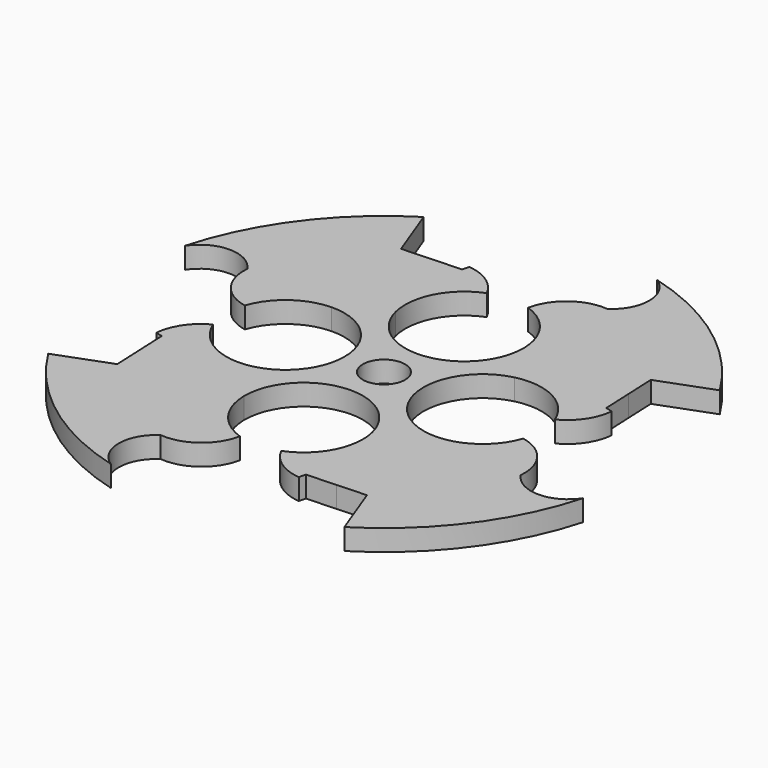
from build123d import *

# Parameters (mm, degrees)
F0_R     = 3
F1_DEPTH = 3


with BuildPart() as f1:
    # F0 (on Top) → F1 (new body)
    with BuildSketch(Plane.XY):
        with BuildLine():
            ThreePointArc((57.3301127781, 5.6720778685), (67.5811295865, 15.1085810454), (73.679486557, 27.6361897588))
            ThreePointArc((73.679486557, 27.6361897588), (69.2456728253, 25.2293463411), (64.8118590936, 27.6361897588))
            ThreePointArc((64.8118590936, 27.6361897588), (63.5273534072, 32.1621670241), (59.5437049903, 34.6651593043))
            ThreePointArc((59.5437049903, 34.6651593043), (56.5473999136, 30.5977037223), (51.7587434047, 28.9881050568))
            ThreePointArc((51.7587434047, 28.9881050568), (43.2853466758, 36.2848022119), (49.588750459, 45.5209996029))
            ThreePointArc((49.588750459, 45.5209996029), (55.4595817481, 44.828212266), (59.4162546646, 40.4360199032))
            ThreePointArc((59.4162546646, 40.4360199032), (61.9654848992, 42.6842952192), (63.1107981169, 45.8845411972))
            Line((63.1107981169, 45.8845411972), (62.1492189347, 46.1509661226))
            Line((62.1492189347, 46.1509661226), (61.9658155367, 50.3289483488))
            Line((61.9658155367, 50.3289483488), (61.7824121386, 54.5069305749))
            Line((61.7824121386, 54.5069305749), (69.3279221315, 57.3301127781))
            ThreePointArc((69.3279221315, 57.3301127781), (59.8914189546, 67.5811295865), (47.3638102412, 73.679486557))
            ThreePointArc((47.3638102412, 73.679486557), (49.7706536589, 69.2456728253), (47.3638102412, 64.8118590936))
            ThreePointArc((47.3638102412, 64.8118590936), (42.8378329759, 63.5273534072), (40.3348406957, 59.5437049903))
            ThreePointArc((40.3348406957, 59.5437049903), (44.4022962777, 56.5473999136), (46.0118949432, 51.7587434047))
            ThreePointArc((46.0118949432, 51.7587434047), (46.012965743, 51.6813590294), (46.0133226864, 51.603968069))
            ThreePointArc((46.0133226864, 51.603968069), (38.6384185061, 43.2756291652), (29.4790003971, 49.588750459))
            ThreePointArc((29.4790003971, 49.588750459), (30.171787734, 55.4595817481), (34.5639800968, 59.4162546646))
            ThreePointArc((34.5639800968, 59.4162546646), (32.3157047808, 61.9654848992), (29.1154588028, 63.1107981169))
            Line((29.1154588028, 63.1107981169), (28.8490338774, 62.1492189347))
            Line((28.8490338774, 62.1492189347), (24.6710516512, 61.9658155367))
            Line((24.6710516512, 61.9658155367), (20.4930694251, 61.7824121386))
            Line((20.4930694251, 61.7824121386), (17.6698872219, 69.3279221315))
            ThreePointArc((17.6698872219, 69.3279221315), (7.4188704135, 59.8914189546), (1.320513443, 47.3638102412))
            ThreePointArc((1.320513443, 47.3638102412), (5.7543271747, 49.7706536589), (10.1881409064, 47.3638102412))
            ThreePointArc((10.1881409064, 47.3638102412), (11.4726465928, 42.8378329759), (15.4562950097, 40.3348406957))
            ThreePointArc((15.4562950097, 40.3348406957), (18.4526000864, 44.4022962777), (23.2412565953, 46.0118949432))
            ThreePointArc((23.2412565953, 46.0118949432), (29.2736601064, 43.6104288236), (31.786001315, 37.6233533025))
            ThreePointArc((31.786001315, 37.6233533025), (30.0028163347, 32.4520878764), (25.411249541, 29.4790003971))
            ThreePointArc((25.411249541, 29.4790003971), (19.5404182519, 30.171787734), (15.5837453354, 34.5639800968))
            ThreePointArc((15.5837453354, 34.5639800968), (13.0345151008, 32.3157047808), (11.8892018831, 29.1154588028))
            Line((11.8892018831, 29.1154588028), (12.8507810653, 28.8490338774))
            Line((12.8507810653, 28.8490338774), (13.0341844633, 24.6710516512))
            Line((13.0341844633, 24.6710516512), (13.2175878614, 20.4930694251))
            Line((13.2175878614, 20.4930694251), (5.6720778685, 17.6698872219))
            ThreePointArc((5.6720778685, 17.6698872219), (15.1085810454, 7.4188704135), (27.6361897588, 1.320513443))
            ThreePointArc((27.6361897588, 1.320513443), (25.2293463411, 5.7543271747), (27.6361897588, 10.1881409064))
            ThreePointArc((27.6361897588, 10.1881409064), (32.1621670241, 11.4726465928), (34.6651593043, 15.4562950097))
            ThreePointArc((34.6651593043, 15.4562950097), (30.5977037223, 18.4526000864), (28.9881050568, 23.2412565953))
            ThreePointArc((28.9881050568, 23.2412565953), (36.2848022119, 31.7146533242), (45.5209996029, 25.411249541))
            ThreePointArc((45.5209996029, 25.411249541), (45.7049856013, 24.4110971346), (45.7666160814, 23.396031931))
            ThreePointArc((45.7666160814, 23.396031931), (44.3070014429, 18.6672086771), (40.4360199032, 15.5837453354))
            ThreePointArc((40.4360199032, 15.5837453354), (42.6842952192, 13.0345151008), (45.8845411972, 11.8892018831))
            Line((45.8845411972, 11.8892018831), (46.1509661226, 12.8507810653))
            Line((46.1509661226, 12.8507810653), (50.3289483488, 13.0341844633))
            Line((50.3289483488, 13.0341844633), (54.5069305749, 13.2175878614))
            Line((54.5069305749, 13.2175878614), (57.3301127781, 5.6720778685))
        make_face()
        with Locations((37.5, 37.5)):
            Circle(F0_R, mode=Mode.SUBTRACT)
    extrude(amount=F1_DEPTH)


solid = f1.part
